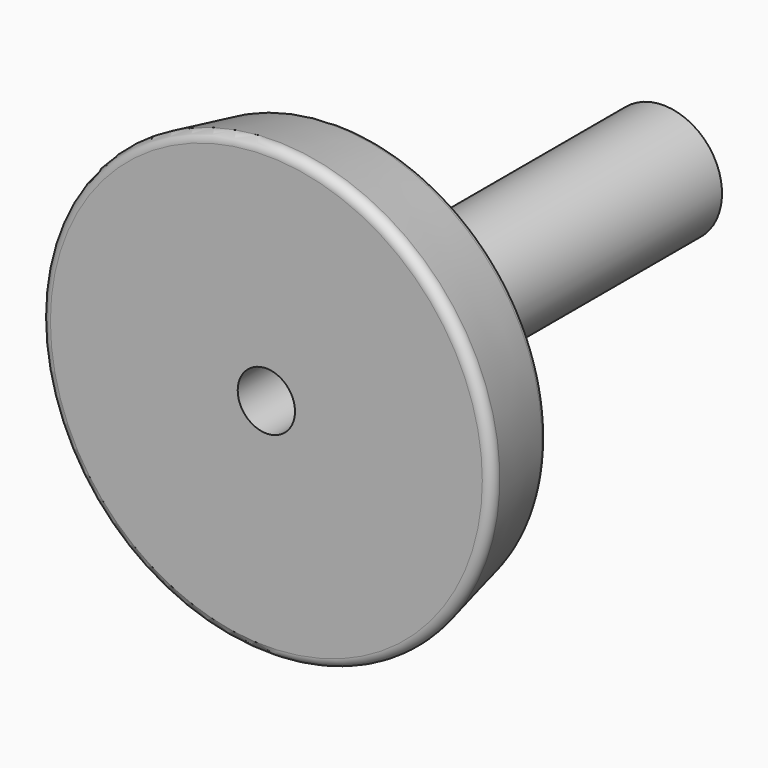
from build123d import *

# Parameters (mm, degrees)
F2_R = 1


with BuildPart() as f1:
    # F0 (on Top) → F1 (revolve)
    with BuildSketch(Plane.XY):
        Polygon((-25.175, 0), (-3.175, 0), (-3.175, 55), (-6.5, 55), (-6.5, 5), (-20, 5), (-20, 10), (-23, 10), align=None)
    revolve(axis=Axis((0, 30.933686, 0), (0, -1, 0)))

    # F2
    f2_edges = [f1.edges().sort_by_distance(p)[0] for p in [
        (25.175, 0, 0),
        (23, 10, 0),
        (20, 10, 0),
    ]]
    fillet(f2_edges, radius=F2_R)


solid = f1.part
